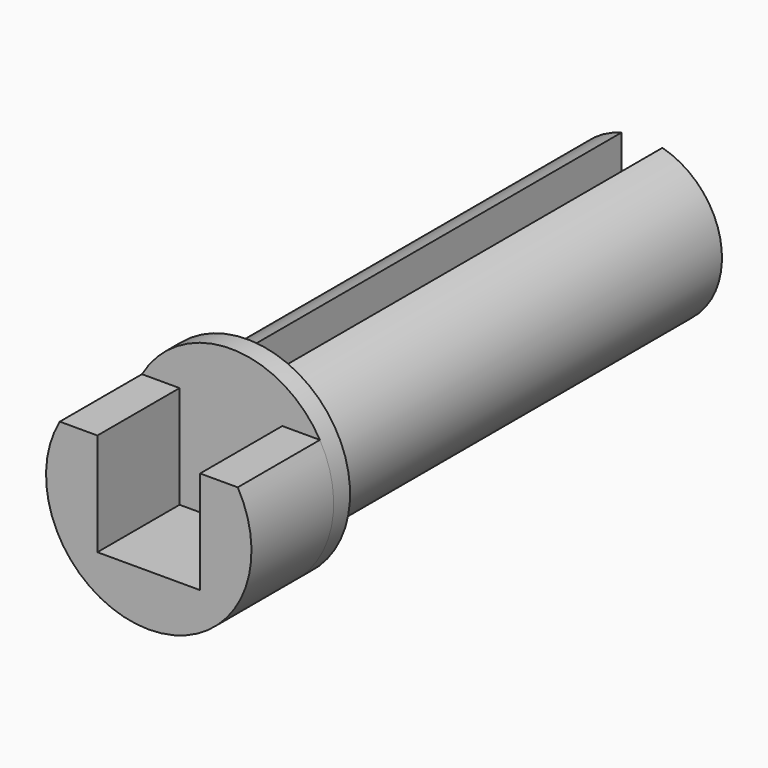
from build123d import *

# Parameters (mm, degrees)
F1_DEPTH = 31.75
F2_R     = 31.75
F3_DEPTH = 6.35
F5_DEPTH = 152.4


with BuildPart() as f1:
    # F0 (on Front) → F1 (new body)
    with BuildSketch(Plane.XZ):
        with BuildLine():
            Line((-15.875, 15.875), (-27.496307, 15.875))
            ThreePointArc((-27.496307, 15.875), (0, -31.75), (27.496307, 15.875))
            Line((27.496307, 15.875), (15.875, 15.875))
            Line((15.875, 15.875), (15.875, -15.875))
            Line((15.875, -15.875), (-15.875, -15.875))
            Line((-15.875, -15.875), (-15.875, 15.875))
        make_face()
    extrude(amount=F1_DEPTH)

    # F2 (on face) → F3 (join)
    with BuildSketch(Plane(origin=(0, 0, 0), x_dir=(-1, 0, 0), z_dir=(0, 1, 0))):
        Circle(F2_R)
    extrude(amount=F3_DEPTH)

    # F4 (on face) → F5 (join)
    with BuildSketch(Plane(origin=(0, 6.35, 0), x_dir=(-1, 0, 0), z_dir=(0, 1, 0))):
        with BuildLine():
            Line((-6.35, 12.3825), (-6.35, 23.937058))
            ThreePointArc((-6.35, 23.937058), (0, -24.765), (6.35, 23.937058))
            Line((6.35, 23.937058), (6.35, 12.3825))
            Line((6.35, 12.3825), (0, 12.3825))
            Line((0, 12.3825), (-6.35, 12.3825))
        make_face()
    extrude(amount=F5_DEPTH)


solid = f1.part
